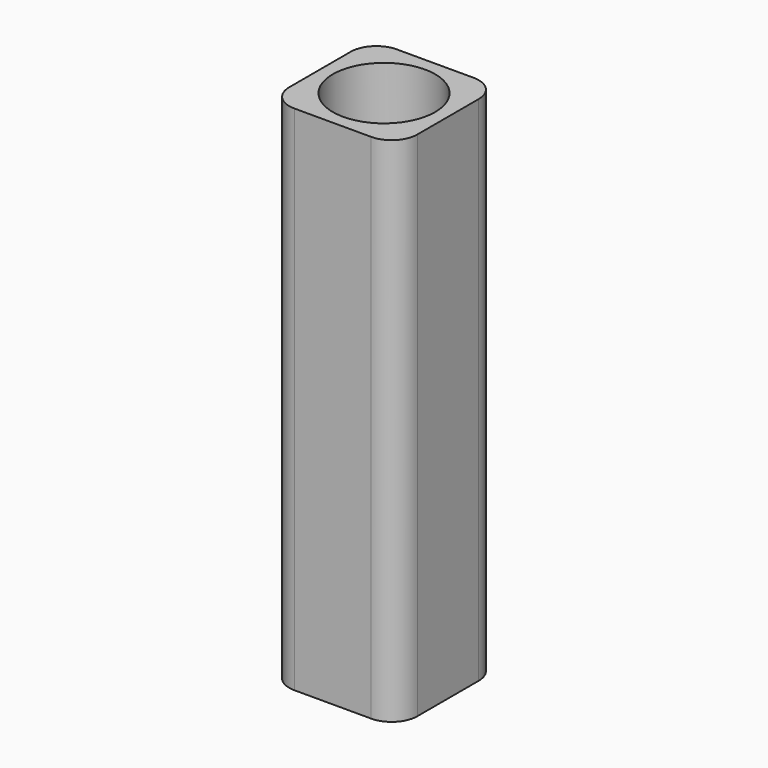
from build123d import *

# Parameters (mm, degrees)
F0_W      = 25.4
F0_H      = 101.6
F1_DEPTH  = 12.7
F2_R      = 5.08
F3_R      = 10.16
F4_DEPTH  = 31.75
F5_R      = 10.16
F6_DEPTH  = 45.72
F8_START  = -3.81
F7_R      = 3.0046886723
F8_DEPTH  = 40.64
F7_R_2    = 2.7148124063
F7_R_3    = 2.9603110359
F7_R_4    = 2.8719223608
F9_R      = 10.0965
F10_DEPTH = 2.54


with BuildPart() as f1:
    # F0 (on Front) → F1 (new body, symmetric)
    with BuildSketch(Plane.XZ):
        with Locations((0, 15.9824670672)):
            Rectangle(F0_W, F0_H)
    extrude(amount=F1_DEPTH, both=True)

    # F2
    f2_edges = [f1.edges().sort_by_distance(p)[0] for p in [
        (-12.7, 12.7, 15.982467),
        (-12.7, -12.7, 15.982467),
        (12.7, 12.7, 15.982467),
        (12.7, -12.7, 15.982467),
    ]]
    fillet(f2_edges, radius=F2_R)

    # F3 (on face) → F4 (cut)
    with BuildSketch(Plane.XY.offset(66.7824670672)):
        Circle(F3_R)
    extrude(amount=-F4_DEPTH, mode=Mode.SUBTRACT)

    # F5 (on face) → F6 (cut)
    with BuildSketch(Plane(origin=(0, 0, -34.8175329328), x_dir=(1, 0, 0), z_dir=(0, 0, -1))):
        Circle(F5_R)
    extrude(amount=-F6_DEPTH, mode=Mode.SUBTRACT)


with BuildPart() as f8:
    # F7 (on face) → F8 (new body)
    with BuildSketch(Plane(origin=(0, 0, -34.8175329328), x_dir=(1, 0, 0), z_dir=(0, 0, -1)).offset(F8_START)):
        with Locations((-3.9398320951, 3.8731449749)):
            Circle(F7_R)
    extrude(amount=-F8_DEPTH)


with BuildPart() as f8b:
    # F7 (on face) → F8, piece 2 (new body)
    with BuildSketch(Plane(origin=(0, 0, -34.8175329328), x_dir=(1, 0, 0), z_dir=(0, 0, -1)).offset(F8_START)):
        with Locations((4.204605706, 3.7551093847)):
            Circle(F7_R_2)
    extrude(amount=-F8_DEPTH)


with BuildPart() as f8c:
    # F7 (on face) → F8, piece 3 (new body)
    with BuildSketch(Plane(origin=(0, 0, -34.8175329328), x_dir=(1, 0, 0), z_dir=(0, 0, -1)).offset(F8_START)):
        with Locations((-3.9398320951, -4.271291662)):
            Circle(F7_R_3)
    extrude(amount=-F8_DEPTH)


with BuildPart() as f8d:
    # F7 (on face) → F8, piece 4 (new body)
    with BuildSketch(Plane(origin=(0, 0, -34.8175329328), x_dir=(1, 0, 0), z_dir=(0, 0, -1)).offset(F8_START)):
        with Locations((4.4406759553, -4.271291662)):
            Circle(F7_R_4)
    extrude(amount=-F8_DEPTH)


with BuildPart() as f10:
    # F9 (on face) → F10 (new body)
    with BuildSketch(Plane(origin=(0, 0, -34.8175329328), x_dir=(1, 0, 0), z_dir=(0, 0, -1))):
        Circle(F9_R)
    extrude(amount=-F10_DEPTH)


solid = Compound([f1.part, f8.part, f8b.part, f8c.part, f8d.part, f10.part])
